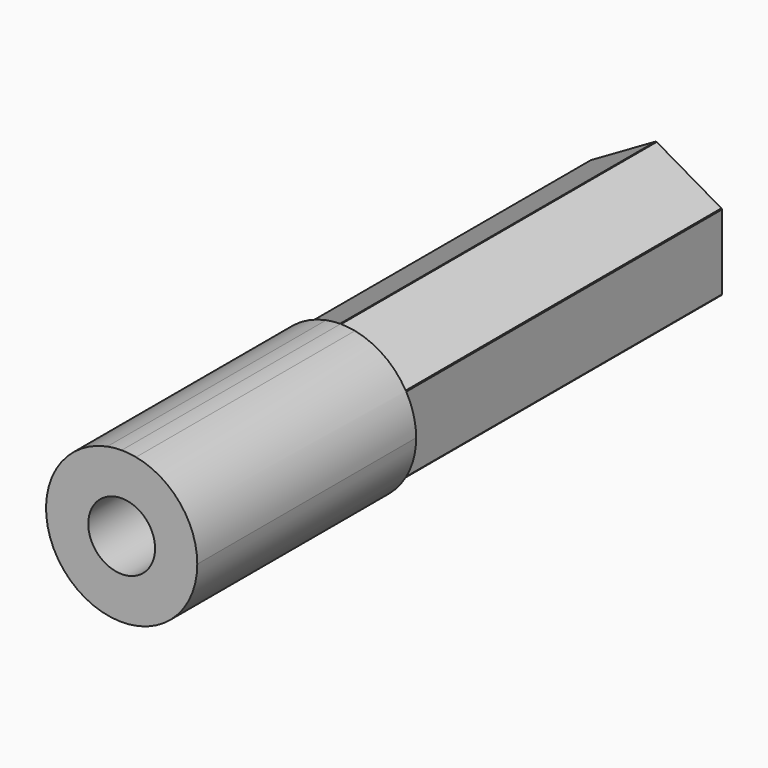
from build123d import *

# Parameters (mm, degrees)
F1_DEPTH = 50.8
F2_W     = 20.294688
F2_H     = 20.55588
F3_DEPTH = 30


with BuildPart() as f1:
    # F0 (on Front) → F1 (new body)
    with BuildSketch(Plane.XZ):
        with BuildLine():
            Line((0, 5.75), (0, 5.644728))
            Line((0, 5.644728), (1.095238, 5.644728))
            ThreePointArc((1.095238, 5.644728), (0.550143, 5.723621), (0, 5.75))
        make_face()
        with BuildLine():
            Line((-1.095238, 5.644728), (0, 5.644728))
            Line((0, 5.644728), (0, 5.75))
            ThreePointArc((0, 5.75), (-0.550143, 5.723621), (-1.095238, 5.644728))
        make_face()
        with BuildLine():
            Line((1.095238, 5.644728), (0, 5.644728))
            Line((0, 5.644728), (-1.095238, 5.644728))
            ThreePointArc((-1.095238, 5.644728), (-3.658202, -4.436221), (5.75, 0))
            ThreePointArc((5.75, 0), (4.436221, 3.658202), (1.095238, 5.644728))
        make_face()
        with BuildLine():
            ThreePointArc((0, 2.54), (1.796051, 1.796051), (2.54, 0))
            ThreePointArc((2.54, 0), (-1.796051, -1.796051), (0, 2.54))
        make_face(mode=Mode.SUBTRACT)
    extrude(amount=-F1_DEPTH)

    # F2 (on face) → F3 (cut)
    with BuildSketch(Plane(origin=(0, 50.8, 0), x_dir=(-1, 0, 0), z_dir=(0, 1, 0))):
        Rectangle(F2_W, F2_H)
        Polygon((0, 5.773503), (5, 2.886751), (5, -2.886751), (0, -5.773503), (-5, -2.886751), (-5, 2.886751), align=None, mode=Mode.SUBTRACT)
    extrude(amount=-F3_DEPTH, mode=Mode.SUBTRACT)


solid = f1.part
